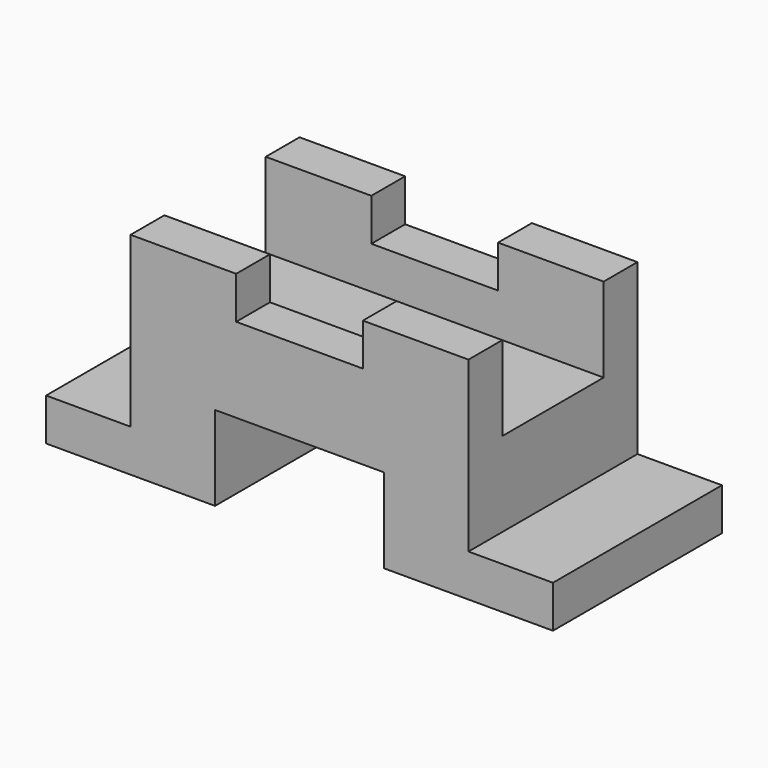
from build123d import *

# Parameters (mm, degrees)
F0_W     = 3048
F0_H     = 1270
F1_DEPTH = 635
F2_W     = 508
F2_H     = 1016
F3_DEPTH = 1270.001
F5_DEPTH = 2540.001


with BuildPart() as f1:
    # F0 (on Front) → F1 (new body, symmetric)
    with BuildSketch(Plane.XZ):
        with Locations((0, 635)):
            Rectangle(F0_W, F0_H)
    extrude(amount=F1_DEPTH, both=True)

    # F2 (on face) → F3 (cut, through all)
    with BuildSketch(Plane.XZ.offset(635)):
        with Locations((1270, 762)):
            Rectangle(F2_W, F2_H)
        Polygon((-508, 0), (0, 0), (508, 0), (508, 508), (0, 508), (-508, 508), align=None)
        Polygon((381, 1270), (0, 1270), (-381, 1270), (-381, 1016), (0, 1016), (381, 1016), align=None)
        with Locations((-1270, 762)):
            Rectangle(F2_W, F2_H)
    extrude(amount=-F3_DEPTH, mode=Mode.SUBTRACT)

    # F4 (on face) → F5 (cut, through all)
    with BuildSketch(Plane.YZ.offset(1016)):
        Polygon((381, 1270), (0, 1270), (-381, 1270), (-381, 762), (0, 762), (381, 762), align=None)
    extrude(amount=-F5_DEPTH, mode=Mode.SUBTRACT)


solid = f1.part
